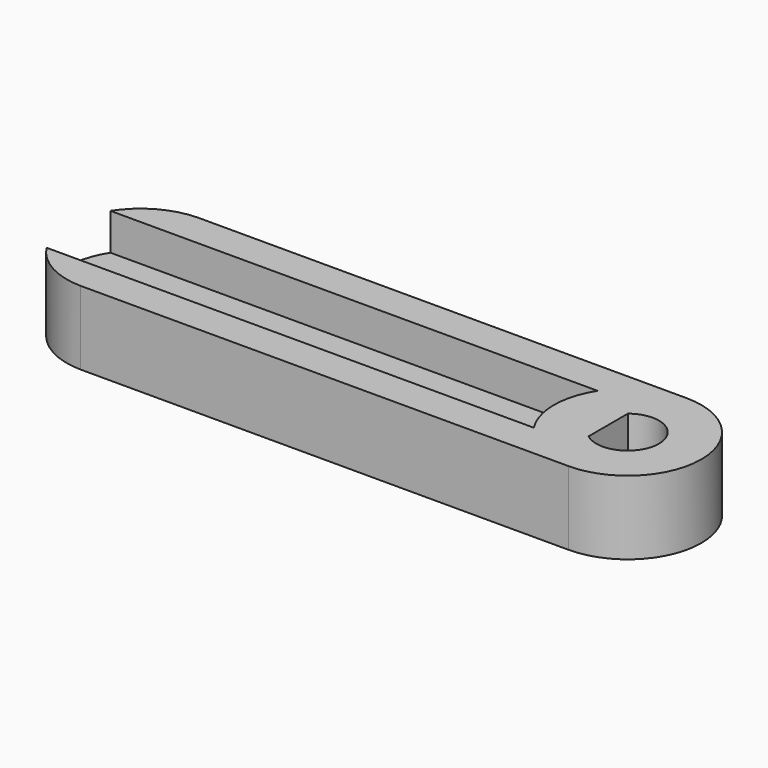
from build123d import *

# Parameters (mm, degrees)
F1_DEPTH = 6
F2_DEPTH = 3


with BuildPart() as f1:
    # F0 (on Top) → F1 (new body)
    with BuildSketch(Plane.XY):
        with BuildLine():
            Line((-44.7939935698, 3.25), (-5.1229558211, 3.25))
            ThreePointArc((-5.1229558211, 3.25), (-6.0793955706, 0), (-5.1229558211, -3.25))
            Line((-5.1229558211, -3.25), (-44.7939935698, -3.25))
            ThreePointArc((-44.7939935698, -3.25), (-42.6572806733, -5.2490864776), (-39.8292040073, -6))
            Line((-39.8292040073, -6), (-0.0793955706, -6))
            ThreePointArc((-0.0793955706, -6), (5.9206044294, 0), (-0.0793955706, 6))
            Line((-0.0793955706, 6), (-39.8292040073, 6))
            ThreePointArc((-39.8292040073, 6), (-42.6572806733, 5.2490864776), (-44.7939935698, 3.25))
        make_face()
        with BuildLine():
            ThreePointArc((-1.6613247726, 2), (1.0315905983, 2.2952580971), (2.4706044294, 0))
            ThreePointArc((2.4706044294, 0), (1.0315905983, -2.2952580971), (-1.6613247726, -2))
            ThreePointArc((-1.6613247726, -2), (-2.6293955706, 0), (-1.6613247726, 2))
        make_face(mode=Mode.SUBTRACT)
        with BuildLine():
            Line((-1.6613247726, -2), (-1.6613247726, 2))
            ThreePointArc((-1.6613247726, 2), (-2.6293955706, 0), (-1.6613247726, -2))
        make_face()
    extrude(amount=F1_DEPTH)

    # F0 (on Top) → F2 (join)
    with BuildSketch(Plane.XY):
        with BuildLine():
            ThreePointArc((-5.1229558211, -3.25), (-6.0793955706, 0), (-5.1229558211, 3.25))
            Line((-5.1229558211, 3.25), (-44.7939935698, 3.25))
            ThreePointArc((-44.7939935698, 3.25), (-45.7503337184, 0), (-44.7939935698, -3.25))
            Line((-44.7939935698, -3.25), (-5.1229558211, -3.25))
        make_face()
    extrude(amount=F2_DEPTH)


solid = f1.part
